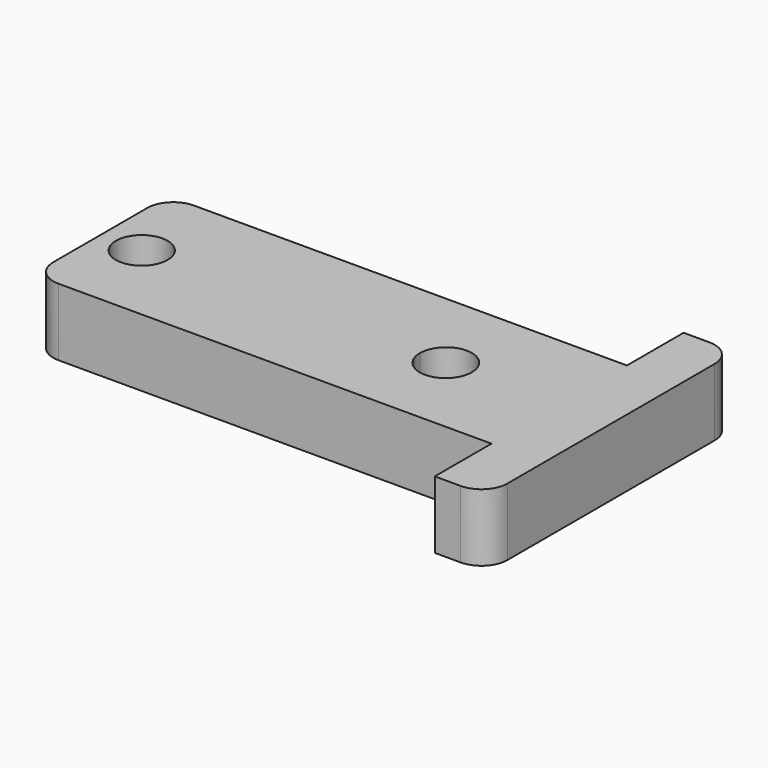
from build123d import *

# Parameters (mm, degrees)
F0_R     = 1.5
F1_DEPTH = 3.9


with BuildPart() as f1:
    # F0 (on Top) → F1 (new body)
    with BuildSketch(Plane.XY):
        with BuildLine():
            Line((0, 3.4), (0, 0))
            Line((0, 0), (0, -3.4))
            ThreePointArc((0, -3.4), (0.4393398282, -4.4606601718), (1.5, -4.9))
            Line((1.5, -4.9), (26.56, -4.9))
            Line((26.56, -4.9), (26.56, -9))
            Line((26.56, -9), (28.06, -9))
            ThreePointArc((28.06, -9), (29.1206601718, -8.5606601718), (29.56, -7.5))
            Line((29.56, -7.5), (29.56, 0))
            Line((29.56, 0), (29.56, 7.5))
            ThreePointArc((29.56, 7.5), (29.1206601718, 8.5606601718), (28.06, 9))
            Line((28.06, 9), (26.56, 9))
            Line((26.56, 9), (26.56, 4.9))
            Line((26.56, 4.9), (1.5, 4.9))
            ThreePointArc((1.5, 4.9), (0.4393398282, 4.4606601718), (0, 3.4))
        make_face()
        with Locations((19.9999936615, -0.015922986)):
            Circle(F0_R, mode=Mode.SUBTRACT)
        with Locations((2.4, 0)):
            Circle(F0_R, mode=Mode.SUBTRACT)
        with Locations((19.9999936615, 0.015922986)):
            Circle(F0_R, mode=Mode.SUBTRACT)
    extrude(amount=F1_DEPTH)


solid = f1.part
